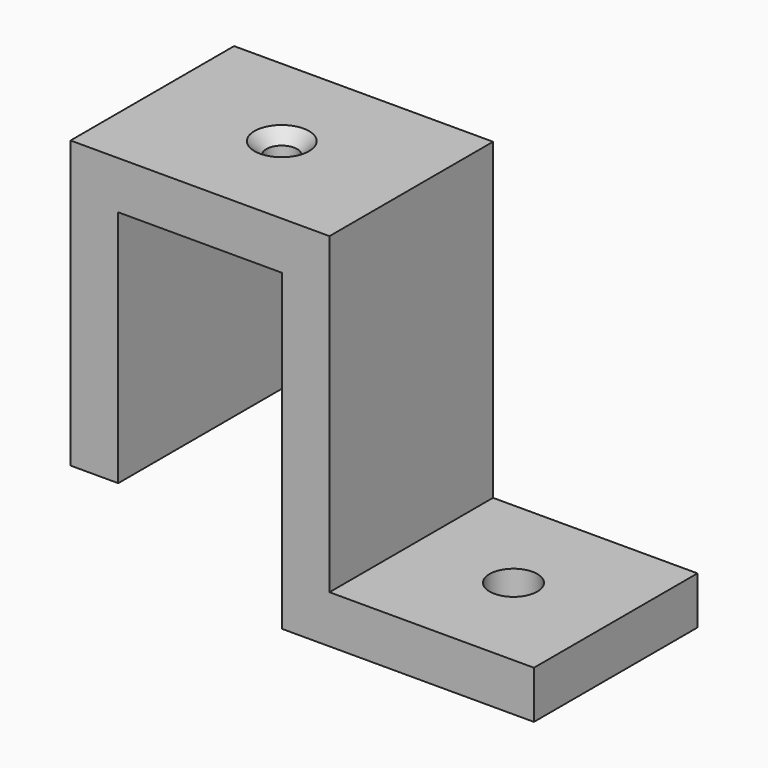
from build123d import *

# Parameters (mm, degrees)
F1_DEPTH       = 15
F3_D           = 7
F5_D           = 4.5
F5_CSINK_D     = 8
F5_CSINK_ANGLE = 90


with BuildPart() as f1:
    # F0 (on Front) → F1 (new body, symmetric)
    with BuildSketch(Plane.XZ):
        Polygon((-55.305267, 15.034918), (-48.305267, 15.034918), (-48.305267, 50.034918), (-24.305267, 50.034918), (-24.305267, 4.034918), (12.694733, 4.034918), (12.694733, 11.034918), (-17.305267, 11.034918), (-17.305267, 57.034918), (-55.305267, 57.034918), align=None)
    extrude(amount=F1_DEPTH, both=True)

    # F3 (through all)
    with Locations(Plane.XY.offset(11.034918)):
        with Locations((-2.305267, 0)):
            Hole(F3_D / 2)

    # F5 (through all)
    with Locations(Plane.XY.offset(57.034918)):
        with Locations((-36.305267, 0)):
            CounterSinkHole(F5_D / 2, F5_CSINK_D / 2, counter_sink_angle=F5_CSINK_ANGLE)


solid = f1.part
